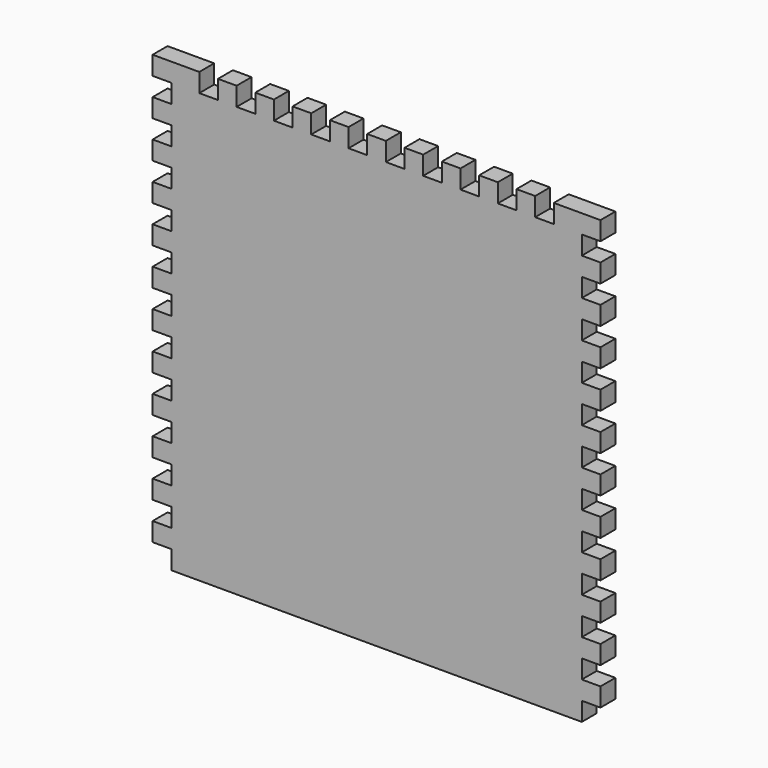
from build123d import *

# Parameters (mm, degrees)
F0_W     = 12.7
F0_H     = 12.7
F1_DEPTH = 12.7


with BuildPart() as f1:
    # F0 (on Front) → F1 (new body)
    with BuildSketch(Plane.XZ):
        with Locations((146.05, 146.05)):
            Rectangle(F0_W, F0_H)
        Polygon((139.7, 139.7), (139.7, 152.4), (120.65, 152.4), (120.65, 139.7), (107.95, 139.7), (107.95, 152.4), (95.25, 152.4), (95.25, 139.7), (82.55, 139.7), (82.55, 152.4), (69.85, 152.4), (69.85, 139.7), (57.15, 139.7), (57.15, 152.4), (44.45, 152.4), (44.45, 139.7), (31.75, 139.7), (31.75, 152.4), (19.05, 152.4), (19.05, 139.7), (6.35, 139.7), (6.35, 152.4), (-6.35, 152.4), (-6.35, 139.7), (-19.05, 139.7), (-19.05, 152.4), (-31.75, 152.4), (-31.75, 139.7), (-44.45, 139.7), (-44.45, 152.4), (-57.15, 152.4), (-57.15, 139.7), (-69.85, 139.7), (-69.85, 152.4), (-82.55, 152.4), (-82.55, 139.7), (-95.25, 139.7), (-95.25, 152.4), (-107.95, 152.4), (-107.95, 139.7), (-120.65, 139.7), (-120.65, 152.4), (-139.7, 152.4), (-139.7, 139.7), (-139.7, 127), (-152.4, 127), (-152.4, 114.3), (-139.7, 114.3), (-139.7, 101.6), (-152.4, 101.6), (-152.4, 88.9), (-139.7, 88.9), (-139.7, 76.2), (-152.4, 76.2), (-152.4, 63.5), (-139.7, 63.5), (-139.7, 50.8), (-152.4, 50.8), (-152.4, 38.1), (-139.7, 38.1), (-139.7, 25.4), (-152.4, 25.4), (-152.4, 12.7), (-139.7, 12.7), (-139.7, 0), (-152.4, 0), (-152.4, -12.7), (-139.7, -12.7), (-139.7, -25.4), (-152.4, -25.4), (-152.4, -38.1), (-139.7, -38.1), (-139.7, -50.8), (-152.4, -50.8), (-152.4, -63.5), (-139.7, -63.5), (-139.7, -76.2), (-152.4, -76.2), (-152.4, -88.9), (-139.7, -88.9), (-139.7, -101.6), (-152.4, -101.6), (-152.4, -114.3), (-139.7, -114.3), (-139.7, -127), (-152.4, -127), (-152.4, -139.7), (-139.7, -139.7), (-139.7, -152.4), (139.7, -152.4), (139.7, -139.7), (152.4, -139.7), (152.4, -127), (139.7, -127), (139.7, -114.3), (152.4, -114.3), (152.4, -101.6), (139.7, -101.6), (139.7, -88.9), (152.4, -88.9), (152.4, -76.2), (139.7, -76.2), (139.7, -63.5), (152.4, -63.5), (152.4, -50.8), (139.7, -50.8), (139.7, -38.1), (152.4, -38.1), (152.4, -25.4), (139.7, -25.4), (139.7, -12.7), (152.4, -12.7), (152.4, 0), (139.7, 0), (139.7, 12.7), (152.4, 12.7), (152.4, 25.4), (139.7, 25.4), (139.7, 38.1), (152.4, 38.1), (152.4, 50.8), (139.7, 50.8), (139.7, 63.5), (152.4, 63.5), (152.4, 76.2), (139.7, 76.2), (139.7, 88.9), (152.4, 88.9), (152.4, 101.6), (139.7, 101.6), (139.7, 114.3), (152.4, 114.3), (152.4, 127), (139.7, 127), align=None)
        with Locations((-146.05, 146.05)):
            Rectangle(F0_W, F0_H)
    extrude(amount=F1_DEPTH)


solid = f1.part
